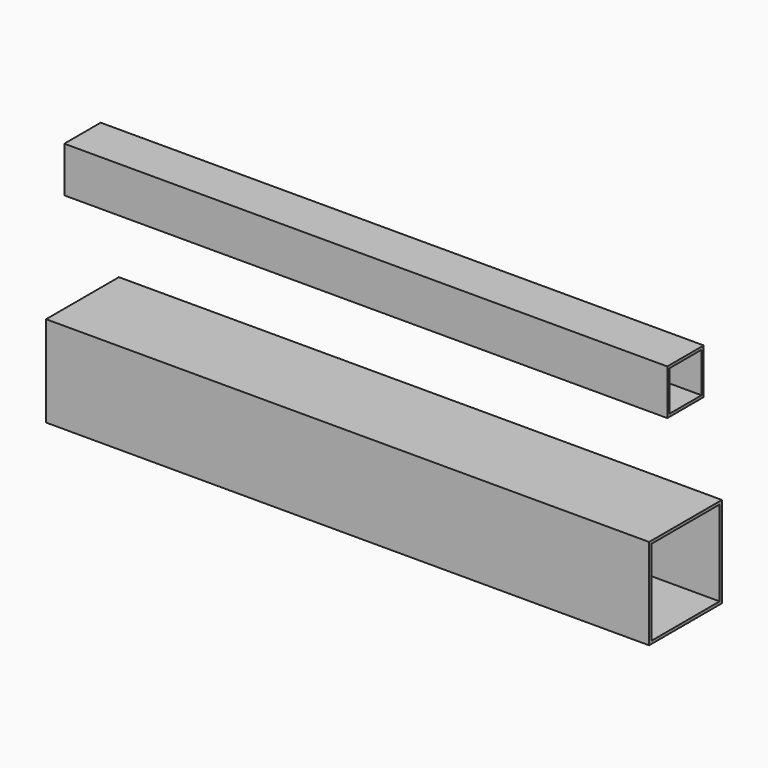
from build123d import *

# Parameters (mm, degrees)
F0_W     = 50.8
F0_H     = 50.8
F0_W_2   = 44.704
F0_H_2   = 44.704
F1_DEPTH = 673.1
F2_W     = 101.6
F2_H     = 101.6
F2_W_2   = 95.25
F2_H_2   = 95.25
F3_DEPTH = 673.1


with BuildPart() as f1:
    # F0 (on Right) → F1 (new body)
    with BuildSketch(Plane.YZ):
        Rectangle(F0_W, F0_H)
        Rectangle(F0_W_2, F0_H_2, mode=Mode.SUBTRACT)
    extrude(amount=F1_DEPTH)


with BuildPart() as f3:
    # F2 (on Right) → F3 (new body)
    with BuildSketch(Plane.YZ):
        with Locations((0, -187.556356)):
            Rectangle(F2_W, F2_H)
        with Locations((0, -187.556356)):
            Rectangle(F2_W_2, F2_H_2, mode=Mode.SUBTRACT)
    extrude(amount=F3_DEPTH)


solid = Compound([f1.part, f3.part])
